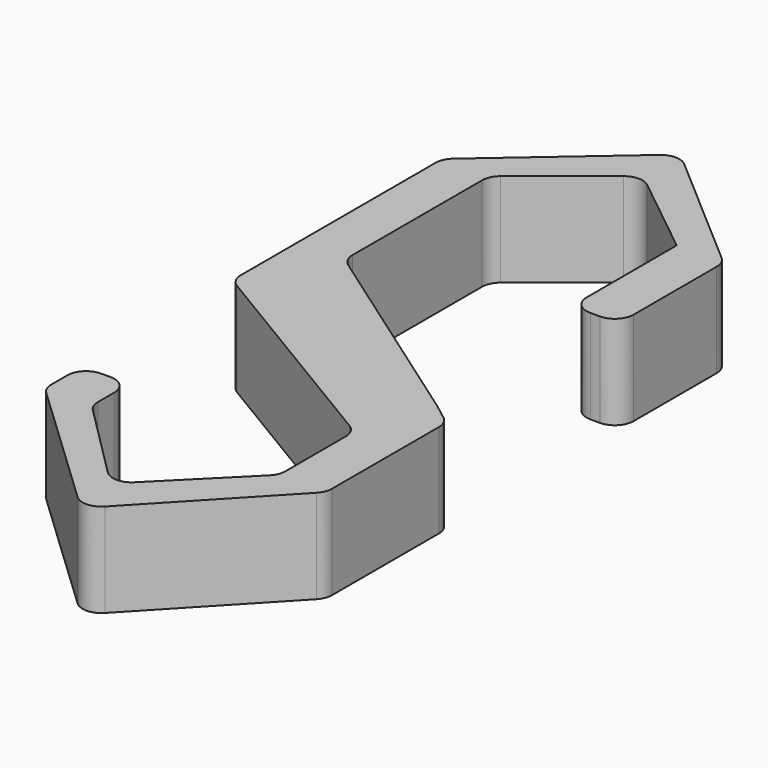
from build123d import *

# Parameters (mm, degrees)
F1_DEPTH = 10


with BuildPart() as f1:
    # F0 (on Top) → F1 (new body)
    with BuildSketch(Plane.XY):
        with BuildLine():
            ThreePointArc((0.850676, 8.136561), (0.225367, 8.851022), (0, 9.773343))
            Line((0, 9.773343), (0, 27.03875))
            ThreePointArc((0, 27.03875), (0.197394, 27.905128), (0.75061, 28.600488))
            Line((0.75061, 28.600488), (8.75061, 35.000488))
            ThreePointArc((8.75061, 35.000488), (10, 35.43875), (11.24939, 35.000488))
            Line((11.24939, 35.000488), (20, 28))
            Line((20, 28), (20, 16))
            ThreePointArc((20, 16), (20.585786, 14.585786), (22, 14))
            Line((22, 14), (23, 14))
            ThreePointArc((23, 14), (24.414214, 14.585786), (25, 16))
            Line((25, 16), (25, 27.086742))
            ThreePointArc((25, 27.086742), (24.819302, 27.917488), (24.309861, 28.59812))
            Line((24.309861, 28.59812), (11.309861, 39.864787))
            ThreePointArc((11.309861, 39.864787), (10, 40.353409), (8.690139, 39.864787))
            Line((8.690139, 39.864787), (-4.309861, 28.59812))
            ThreePointArc((-4.309861, 28.59812), (-4.819302, 27.917488), (-5, 27.086742))
            Line((-5, 27.086742), (-5, 1.132381))
            ThreePointArc((-5, 1.132381), (-4.7404, 0.146983), (-4.028992, -0.582605))
            Line((-4.028992, -0.582605), (19.028992, -14.417395))
            ThreePointArc((19.028992, -14.417395), (19.7404, -15.146983), (20, -16.132381))
            Line((20, -16.132381), (20, -24.171573))
            ThreePointArc((20, -24.171573), (19.847759, -24.93694), (19.414214, -25.585786))
            Line((19.414214, -25.585786), (11.414214, -33.585786))
            ThreePointArc((11.414214, -33.585786), (10, -34.171573), (8.585786, -33.585786))
            Line((8.585786, -33.585786), (0.585786, -25.585786))
            ThreePointArc((0.585786, -25.585786), (0.152241, -24.93694), (0, -24.171573))
            Line((0, -24.171573), (0, -22))
            ThreePointArc((0, -22), (-0.585786, -20.585786), (-2, -20))
            Line((-2, -20), (-3, -20))
            ThreePointArc((-3, -20), (-4.414214, -20.585786), (-5, -22))
            Line((-5, -22), (-5, -24.139211))
            ThreePointArc((-5, -24.139211), (-4.837075, -24.929878), (-4.374845, -25.591726))
            Line((-4.374845, -25.591726), (9.392574, -38.622959))
            ThreePointArc((9.392574, -38.622959), (10.823936, -39.169645), (12.222127, -38.542969))
            Line((12.222127, -38.542969), (24.454708, -25.577943))
            ThreePointArc((24.454708, -25.577943), (24.858684, -24.943857), (25, -24.205417))
            Line((25, -24.205417), (25, -9.960865))
            ThreePointArc((25, -9.960865), (24.791955, -9.072665), (24.211102, -8.369251))
            Line((24.211102, -8.369251), (22.466767, -7.04194))
            Line((22.466767, -7.04194), (0.850676, 8.136561))
        make_face()
    extrude(amount=F1_DEPTH)


solid = f1.part
